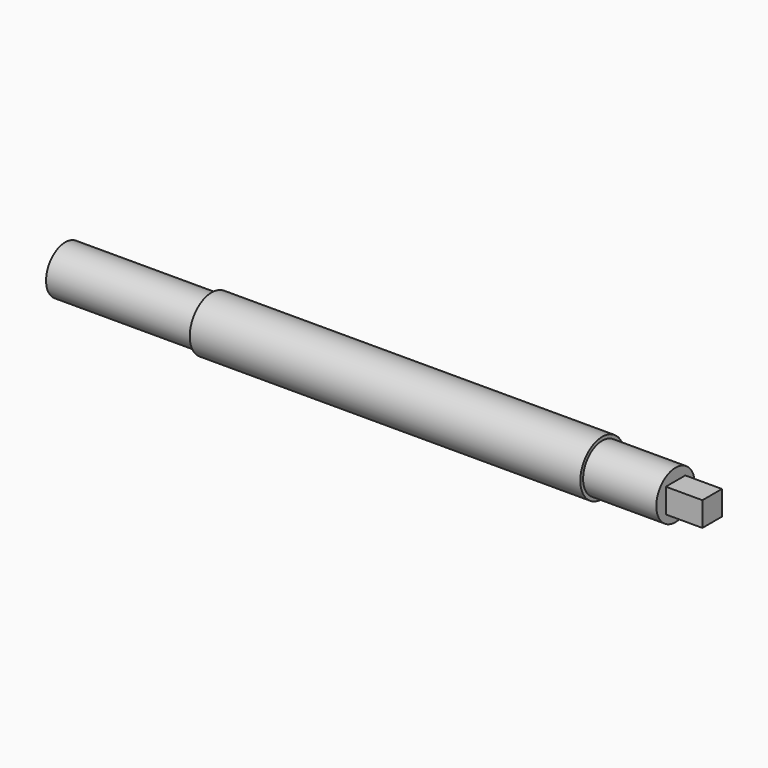
from build123d import *

# Parameters (mm, degrees)
F0_R          = 14.2875
F0_R_2        = 12.4968
F1_DEPTH      = 101.6
F1_DEPTH_BACK = 101.6
F0_W          = 12.7
F0_H          = 12.7
F2_DEPTH      = 139.7
F2_DEPTH_BACK = 177.8
F3_DEPTH      = 158.75
F3_DEPTH_BACK = 177.8


with BuildPart() as f1:
    # F0 (on Right) → F1 (new body, two sides)
    with BuildSketch(Plane.YZ) as f1_sk:
        Circle(F0_R)
        Circle(F0_R_2, mode=Mode.SUBTRACT)
    extrude(amount=F1_DEPTH)
    extrude(f1_sk.sketch, amount=-F1_DEPTH_BACK)

    # F0 (on Right) → F2 (join, two sides)
    with BuildSketch(Plane.YZ) as f2_sk:
        Circle(F0_R_2)
        Rectangle(F0_W, F0_H, mode=Mode.SUBTRACT)
    extrude(amount=F2_DEPTH)
    extrude(f2_sk.sketch, amount=-F2_DEPTH_BACK)

    # F0 (on Right) → F3 (join, two sides)
    with BuildSketch(Plane.YZ) as f3_sk:
        Rectangle(F0_W, F0_H)
    extrude(amount=F3_DEPTH)
    extrude(f3_sk.sketch, amount=-F3_DEPTH_BACK)


solid = f1.part
